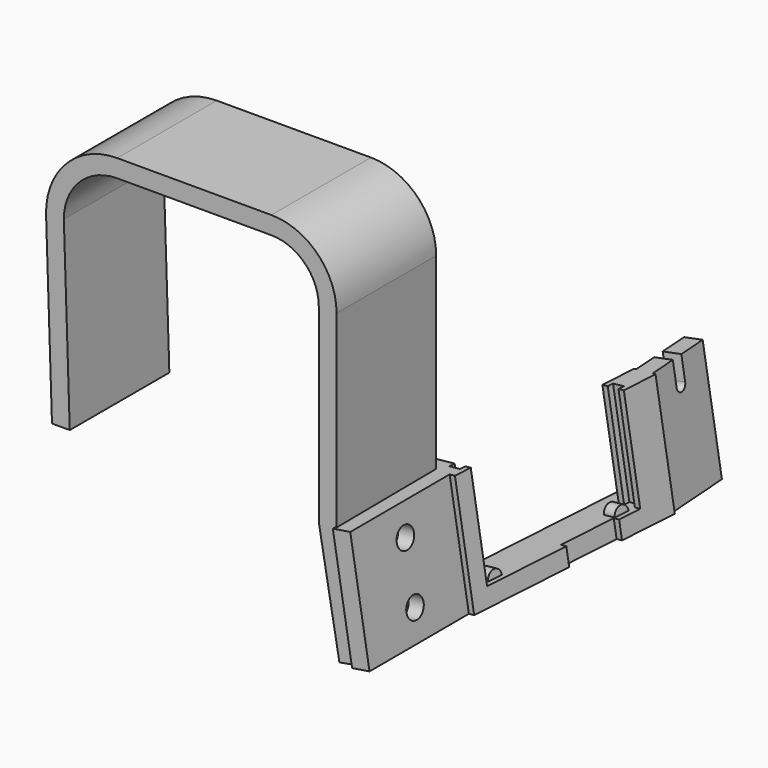
from build123d import *

# Parameters (mm, degrees)
PAD001_DEPTH            = 21
SKETCH_W                = 21
SKETCH_H                = 20
SKETCH_R                = 1.8
PAD_DEPTH               = 3
PAD026_DEPTH            = 1
PAD025_DEPTH            = 1
PAD027_DEPTH            = 1
SKETCH026_W             = 21
SKETCH026_H             = 20
SKETCH026_R             = 1.8
PAD024_DEPTH            = 3
BOX_W                   = 38
BOX_H                   = 3
BOX_DEPTH               = 3
SKETCH030_W             = 3
SKETCH030_H             = 3
PAD031_DEPTH            = 20
PAD032_DEPTH            = 1.5
BODY004_ROLL_ANGLE      = 1.304833
BODY004_PITCH_ANGLE     = -8.917335
BODY004_PLACEMENT_ANGLE = -5.612517


with BuildPart() as clip:
    # Sketch001 → Pad001 (new body)
    with BuildSketch(Plane.XZ):
        with BuildLine():
            Line((-10, 43), (-36.006318, 43))
            ThreePointArc((-36.006318, 43), (-44.628152, 39.346494), (-48, 30.610661))
            Line((-47.006318, 0), (-48, 30.610661))
            Line((-44.006318, 0), (-47.006318, 0))
            Line((-45.006318, 31), (-44.006318, 0))
            ThreePointArc((-36.006318, 40), (-42.370279, 37.363961), (-45.006318, 31))
            Line((-10, 40), (-36.006318, 40))
            ThreePointArc((-2, 32), (-4.343146, 37.656854), (-10, 40))
            Line((-2, 32), (-2, 0))
            Line((1, 0), (-2, 0))
            Line((1, 32), (1, 0))
            ThreePointArc((1, 32), (-2.221825, 39.778175), (-10, 43))
        make_face()
    extrude(amount=PAD001_DEPTH)

    # Sketch → Pad (join)
    with BuildSketch(Plane(origin=(-2, 0, 0), x_dir=(0, 1, 0), z_dir=(0.984808, 0, 0.173648))):
        with Locations((-10.5, -10)):
            Rectangle(SKETCH_W, SKETCH_H)
        with Locations((-11, -5)):
            Circle(SKETCH_R, mode=Mode.SUBTRACT)
        with Locations((-11, -15)):
            Circle(SKETCH_R, mode=Mode.SUBTRACT)
    extrude(amount=PAD_DEPTH)


with BuildPart() as frame:
    # Sketch024 → Pad026 (new body, symmetric)
    with BuildSketch(Plane.YZ):
        with BuildLine():
            Line((0, 20), (0, 0))
            Line((0, 0), (38, 0))
            Line((38, 0), (38, 20))
            Line((38, 20), (33, 20))
            Line((33, 20), (33, 3))
            Line((33, 3), (30.8, 3))
            ThreePointArc((30.8, 3), (29.5, 4.3), (28.2, 3))
            Line((6.8, 3), (28.2, 3))
            ThreePointArc((6.8, 3), (5.5, 4.3), (4.2, 3))
            Line((2, 3), (4.2, 3))
            Line((2, 20), (2, 3))
            Line((0, 20), (2, 20))
        make_face()
    extrude(amount=PAD026_DEPTH, both=True)

    # Sketch023 → Pad025 (join)
    with BuildSketch(Plane.YZ.offset(1)):
        Polygon((3, 3), (3, 20), (0, 20), (0, 0), (18, 0), (18, 3), align=None)
        Polygon((38, 0), (38, 20), (32, 20), (32, 3), (28, 3), (28, 0), align=None)
    extrude(amount=PAD025_DEPTH)

    # Sketch025 → Pad027 (join)
    with BuildSketch(Plane.YZ.offset(-1)):
        Polygon((3, 3), (3, 20), (0, 20), (0, 0), (38, 0), (38, 20), (32, 20), (32, 3), align=None)
    extrude(amount=-PAD027_DEPTH)

    # Sketch026 → Pad024 (join)
    with BuildSketch(Plane(origin=(-2, 0, 0), x_dir=(-0.087156, 0.996195, 0), z_dir=(0.996195, 0.087156, 0))):
        with Locations((-10.5, 10)):
            Rectangle(SKETCH026_W, SKETCH026_H)
        with Locations((-10.5, 15)):
            Circle(SKETCH026_R, mode=Mode.SUBTRACT)
        with Locations((-10.5, 5)):
            Circle(SKETCH026_R, mode=Mode.SUBTRACT)
    extrude(amount=PAD024_DEPTH)

    # Box → Box (join)
    with BuildSketch(Plane.YZ.offset(-5)):
        with Locations((19, 1.5)):
            Rectangle(BOX_W, BOX_H)
    extrude(amount=BOX_DEPTH)

    # Sketch030 → Pad031 (join)
    with BuildSketch(Plane.XY):
        with Locations((-3.5, 1.5)):
            Rectangle(SKETCH030_W, SKETCH030_H)
    extrude(amount=PAD031_DEPTH)

    # Sketch031 → Pad032 (join, symmetric)
    with BuildSketch(Plane(origin=(0, 37.5, 0), x_dir=(-0.173648, 0.984808, 0), z_dir=(0.984808, 0.173648, 0))):
        with BuildLine():
            Line((0, 20), (0, 0))
            Line((0, 0), (12, 0))
            Line((12, 0), (12, 20))
            Line((7, 20), (12, 20))
            Line((7, 16), (7, 20))
            ThreePointArc((5, 16), (6, 15), (7, 16))
            Line((5, 16), (5, 20))
            Line((0, 20), (5, 20))
        make_face()
    extrude(amount=PAD032_DEPTH, both=True)


with BuildPart() as frame_1:
    # Body004 roll: moved
    add(frame.part.rotate(Axis((0, 0, 0), (1, 0, 0)), BODY004_ROLL_ANGLE))


with BuildPart() as frame_2:
    # Body004 pitch: moved
    add(frame_1.part.rotate(Axis((0, 0, 0), (0, 1, 0)), BODY004_PITCH_ANGLE))


with BuildPart() as frame_3:
    # Body004 placement: moved
    add(frame_2.part.moved(Location((6.030799, -0.539897, -19.118518))).rotate(Axis((6.030799, -0.539897, -19.118518), (0, 0, 1)), BODY004_PLACEMENT_ANGLE))


solid = Compound([clip.part, frame_3.part])
